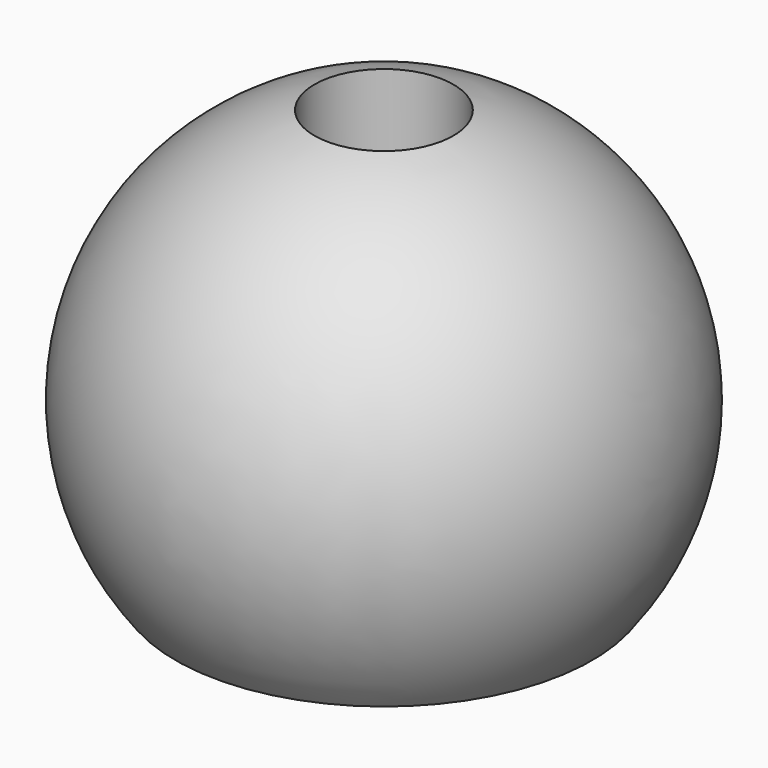
from build123d import *


with BuildPart() as part:
    # Sketch → Revolution (revolve)
    with BuildSketch(Plane.XZ):
        with BuildLine():
            ThreePointArc((-1, 6), (-3.605551, 3.535184), (-3, 0))
            Line((-3, 0), (-1, 0))
            Line((-1, 0), (-1, 6))
        make_face()
    revolve(axis=Axis((0, 0, 0), (0, 0, 1)))


solid = part.part
